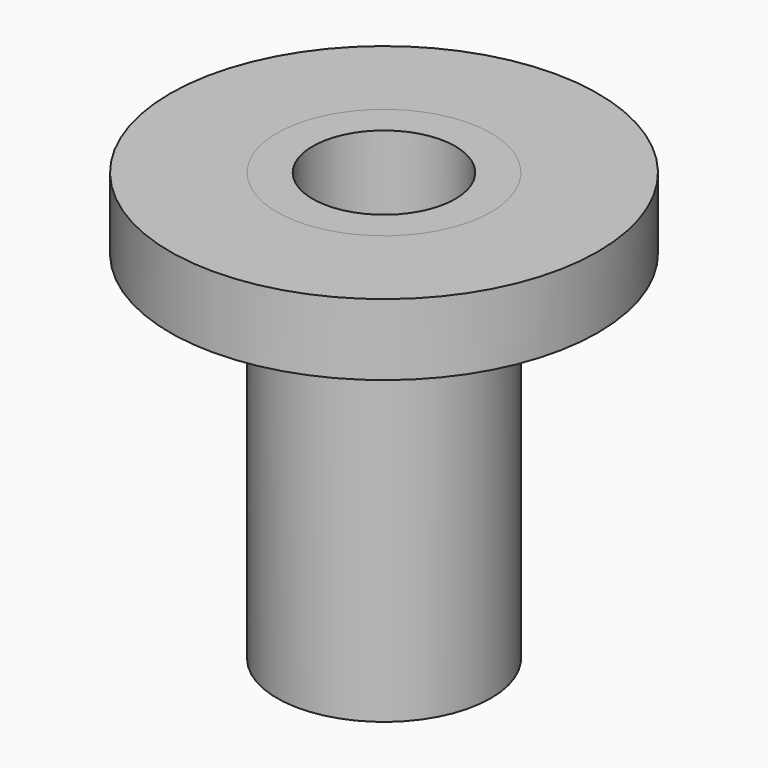
from build123d import *

# Parameters (mm, degrees)
F0_R     = 3
F0_R_2   = 2
F1_DEPTH = 12
F0_R_3   = 1.5
F2_DEPTH = 1
F3_R     = 6
F3_R_2   = 3
F4_DEPTH = 2


with BuildPart() as f1:
    # F0 (on Top) → F1 (new body)
    with BuildSketch(Plane.XY):
        Circle(F0_R)
        Circle(F0_R_2, mode=Mode.SUBTRACT)
    extrude(amount=F1_DEPTH)

    # F0 (on Top) → F2 (join)
    with BuildSketch(Plane.XY):
        Circle(F0_R_2)
        Circle(F0_R_3, mode=Mode.SUBTRACT)
    extrude(amount=F2_DEPTH)


with BuildPart() as f4:
    # F3 (on face) → F4 (new body)
    with BuildSketch(Plane.XY.offset(12)):
        Circle(F3_R)
        Circle(F3_R_2, mode=Mode.SUBTRACT)
    extrude(amount=-F4_DEPTH)


solid = Compound([f1.part, f4.part])
